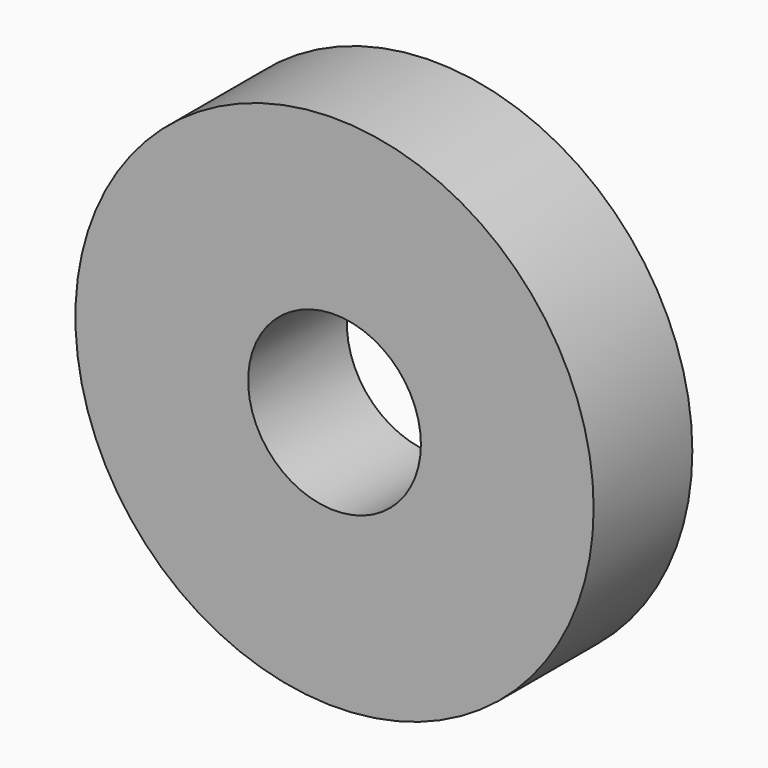
from build123d import *

# Parameters (mm, degrees)
CYLINDER001_R             = 3.5
CYLINDER001_DEPTH         = 10
CYLINDER_R                = 10.5
CYLINDER_DEPTH            = 5
CUT005005_PLACEMENT_ANGLE = 90


with BuildPart() as cylinder001:
    # Cylinder001 → Cylinder001 (new body)
    with BuildSketch(Plane.XY.offset(-3)):
        Circle(CYLINDER001_R)
    extrude(amount=CYLINDER001_DEPTH)


with BuildPart() as obj1:
    # Cylinder → Cylinder (new body)
    with BuildSketch(Plane.XY):
        Circle(CYLINDER_R)
    extrude(amount=CYLINDER_DEPTH)

    # Cut005005: cut Cylinder001
    add(cylinder001.part, mode=Mode.SUBTRACT)


with BuildPart() as obj1_1:
    # Cut005005 placement: moved
    add(obj1.part.moved(Location((89, -23, 10.4))).rotate(Axis((89, -23, 10.4), (1, 0, 0)), CUT005005_PLACEMENT_ANGLE))


solid = obj1_1.part
